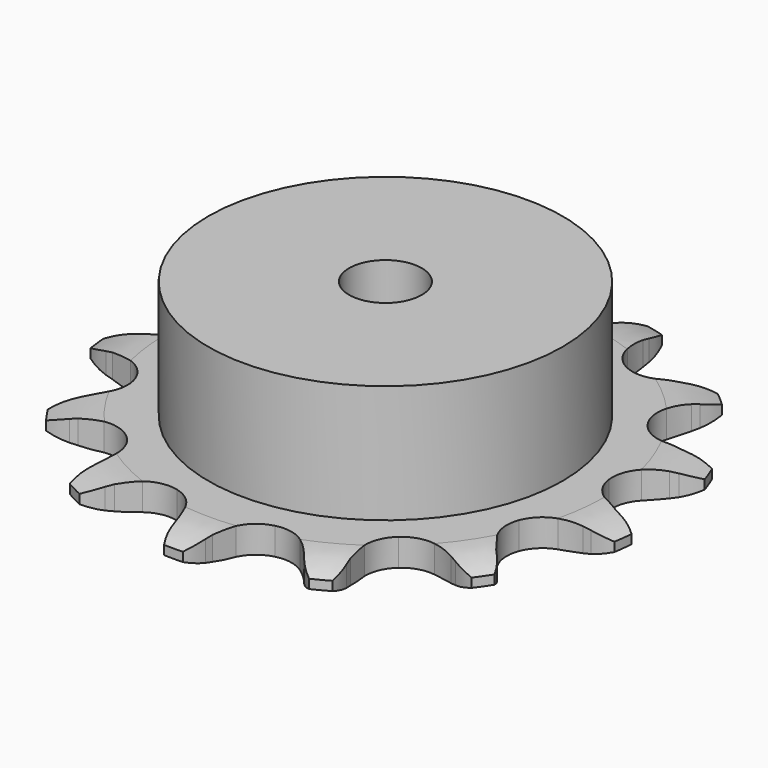
from build123d import *

# Parameters (mm, degrees)
PAD_DEPTH         = 3
SKETCH001_R       = 19.5
PAD001_DEPTH      = 16
SKETCH002_R       = 4
POCKET_DEPTH      = 0.001
POCKET_DEPTH_BACK = -16.001


with BuildPart() as part:
    # Sprocket → Pad (new body)
    with BuildSketch(Plane.XY):
        with BuildLine():
            ThreePointArc((-7.288365, 29.57006), (-5.778743, 28.369817), (-4.687667, 26.779504))
            Line((-4.687667, 26.779504), (-4.336843, 26.05775))
            ThreePointArc((-4.336843, 26.05775), (-3.743846, 25.003033), (-3.029351, 24.026525))
            ThreePointArc((-3.029351, 24.026525), (-1.673889, 22.975558), (0, 22.601517))
            ThreePointArc((0, 22.601517), (1.673889, 22.975558), (3.029351, 24.026525))
            ThreePointArc((3.029351, 24.026525), (3.743846, 25.003033), (4.336843, 26.05775))
            Line((4.336843, 26.05775), (4.687667, 26.779504))
            ThreePointArc((4.687667, 26.779504), (5.778743, 28.369817), (7.288365, 29.57006))
            ThreePointArc((7.288365, 29.57006), (8.067288, 27.805741), (8.294333, 25.890541))
            Line((8.294333, 25.890541), (8.269557, 25.088423))
            ThreePointArc((8.269557, 25.088423), (8.304478, 23.878938), (8.483326, 22.682241))
            ThreePointArc((8.483326, 22.682241), (9.195119, 21.121741), (10.503449, 20.01265))
            ThreePointArc((10.503449, 20.01265), (12.159429, 19.565951), (13.84804, 19.866622))
            Line((13.84804, 19.866622), (15.949723, 21.05756))
            ThreePointArc((15.949723, 21.05756), (16.268037, 21.301981), (16.595779, 21.533606))
            ThreePointArc((16.595779, 21.533606), (18.300934, 22.43471), (20.195419, 22.795915))
            ThreePointArc((20.195419, 22.795915), (20.065201, 20.871705), (19.376201, 19.070366))
            Line((19.376201, 19.070366), (18.9815, 18.37164))
            ThreePointArc((18.9815, 18.37164), (18.450346, 17.284466), (18.052575, 16.141729))
            ThreePointArc((18.052575, 16.141729), (17.957636, 14.429188), (18.600684, 12.839125))
            ThreePointArc((18.600684, 12.839125), (19.859391, 11.674021), (21.49431, 11.155515))
            Line((21.49431, 11.155515), (23.908715, 11.233337))
            ThreePointArc((23.908715, 11.233337), (24.304155, 11.301834), (24.701998, 11.354618))
            ThreePointArc((24.701998, 11.354618), (26.630602, 11.360081), (28.475945, 10.799502))
            ThreePointArc((28.475945, 10.799502), (27.466418, 9.156213), (26.019215, 7.881401))
            Line((26.019215, 7.881401), (25.345011, 7.446137))
            ThreePointArc((25.345011, 7.446137), (24.369462, 6.730332), (23.486197, 5.903341))
            ThreePointArc((23.486197, 5.903341), (22.606275, 4.431082), (22.436727, 2.724312))
            ThreePointArc((22.436727, 2.724312), (23.009805, 1.107713), (24.216492, -0.111186))
            Line((24.216492, -0.111186), (26.390508, -1.164307))
            ThreePointArc((26.390508, -1.164307), (26.772485, -1.287427), (27.149287, -1.425576))
            ThreePointArc((27.149287, -1.425576), (28.859519, -2.317006), (30.232976, -3.670948))
            ThreePointArc((30.232976, -3.670948), (28.57541, -4.656857), (26.701541, -5.113098))
            Line((26.701541, -5.113098), (25.902285, -5.185187))
            ThreePointArc((25.902285, -5.185187), (24.705828, -5.365641), (23.539414, -5.687431))
            ThreePointArc((23.539414, -5.687431), (22.076089, -6.582132), (21.132786, -8.014608))
            ThreePointArc((21.132786, -8.014608), (20.888951, -9.712358), (21.390968, -11.352415))
            Line((21.390968, -11.352415), (22.826554, -13.295224))
            ThreePointArc((22.826554, -13.295224), (23.107561, -13.581754), (23.377002, -13.879188))
            ThreePointArc((23.377002, -13.879188), (24.477069, -15.463294), (25.063996, -17.300427))
            ThreePointArc((25.063996, -17.300427), (23.13812, -17.403097), (21.266865, -16.936248))
            Line((21.266865, -16.936248), (20.525658, -16.628647))
            ThreePointArc((20.525658, -16.628647), (19.382387, -16.23241), (18.200035, -15.975281))
            ThreePointArc((18.200035, -15.975281), (16.488537, -16.087458), (14.987578, -16.917479))
            ThreePointArc((14.987578, -16.917479), (13.982689, -18.307445), (13.665031, -19.992943))
            Line((13.665031, -19.992943), (14.033311, -22.380364))
            ThreePointArc((14.033311, -22.380364), (14.148973, -22.764665), (14.249327, -23.153245))
            ThreePointArc((14.249327, -23.153245), (14.487217, -25.067128), (14.153157, -26.966587))
            ThreePointArc((14.153157, -26.966587), (12.400165, -26.162498), (10.960207, -24.879508))
            Line((10.960207, -24.879508), (10.44685, -24.262684))
            ThreePointArc((10.44685, -24.262684), (9.618674, -23.38053), (8.691247, -22.603387))
            ThreePointArc((8.691247, -22.603387), (7.123659, -21.907342), (5.408897, -21.944758))
            ThreePointArc((5.408897, -21.944758), (3.873162, -22.708518), (2.8086, -24.053329))
            Line((2.8086, -24.053329), (2.025206, -26.338433))
            ThreePointArc((2.025206, -26.338433), (1.949026, -26.732466), (1.857303, -27.123172))
            ThreePointArc((1.857303, -27.123172), (1.178518, -28.928385), (0, -30.455027))
            ThreePointArc((0, -30.455027), (-1.178518, -28.928385), (-1.857303, -27.123172))
            Line((-1.857303, -27.123172), (-2.025206, -26.338433))
            ThreePointArc((-2.025206, -26.338433), (-2.348561, -25.172452), (-2.8086, -24.053329))
            ThreePointArc((-2.8086, -24.053329), (-3.873162, -22.708518), (-5.408897, -21.944758))
            ThreePointArc((-5.408897, -21.944758), (-7.123659, -21.907342), (-8.691247, -22.603387))
            Line((-8.691247, -22.603387), (-10.44685, -24.262684))
            ThreePointArc((-10.44685, -24.262684), (-10.697419, -24.576181), (-10.960207, -24.879508))
            ThreePointArc((-10.960207, -24.879508), (-12.400165, -26.162498), (-14.153157, -26.966587))
            ThreePointArc((-14.153157, -26.966587), (-14.487217, -25.067128), (-14.249327, -23.153245))
            Line((-14.249327, -23.153245), (-14.033311, -22.380364))
            ThreePointArc((-14.033311, -22.380364), (-13.777769, -21.197668), (-13.665031, -19.992943))
            ThreePointArc((-13.665031, -19.992943), (-13.982689, -18.307445), (-14.987578, -16.917479))
            ThreePointArc((-14.987578, -16.917479), (-16.488537, -16.087458), (-18.200035, -15.975281))
            Line((-18.200035, -15.975281), (-20.525658, -16.628647))
            ThreePointArc((-20.525658, -16.628647), (-20.893215, -16.789789), (-21.266865, -16.936248))
            ThreePointArc((-21.266865, -16.936248), (-23.13812, -17.403097), (-25.063996, -17.300427))
            ThreePointArc((-25.063996, -17.300427), (-24.477069, -15.463294), (-23.377002, -13.879188))
            Line((-23.377002, -13.879188), (-22.826554, -13.295224))
            ThreePointArc((-22.826554, -13.295224), (-22.050656, -12.366754), (-21.390968, -11.352415))
            ThreePointArc((-21.390968, -11.352415), (-20.888951, -9.712358), (-21.132786, -8.014608))
            ThreePointArc((-21.132786, -8.014608), (-22.076089, -6.582132), (-23.539414, -5.687431))
            Line((-23.539414, -5.687431), (-25.902285, -5.185187))
            ThreePointArc((-25.902285, -5.185187), (-26.302627, -5.157058), (-26.701541, -5.113098))
            ThreePointArc((-26.701541, -5.113098), (-28.57541, -4.656857), (-30.232976, -3.670948))
            ThreePointArc((-30.232976, -3.670948), (-28.859519, -2.317006), (-27.149287, -1.425576))
            Line((-27.149287, -1.425576), (-26.390508, -1.164307))
            ThreePointArc((-26.390508, -1.164307), (-25.272004, -0.702766), (-24.216492, -0.111186))
            ThreePointArc((-24.216492, -0.111186), (-23.009805, 1.107713), (-22.436727, 2.724312))
            ThreePointArc((-22.436727, 2.724312), (-22.606275, 4.431082), (-23.486197, 5.903341))
            Line((-23.486197, 5.903341), (-25.345011, 7.446137))
            ThreePointArc((-25.345011, 7.446137), (-25.686424, 7.657092), (-26.019215, 7.881401))
            ThreePointArc((-26.019215, 7.881401), (-27.466418, 9.156213), (-28.475945, 10.799502))
            ThreePointArc((-28.475945, 10.799502), (-26.630602, 11.360081), (-24.701998, 11.354618))
            Line((-24.701998, 11.354618), (-23.908715, 11.233337))
            ThreePointArc((-23.908715, 11.233337), (-22.70384, 11.122217), (-21.49431, 11.155515))
            ThreePointArc((-21.49431, 11.155515), (-19.859391, 11.674021), (-18.600684, 12.839125))
            ThreePointArc((-18.600684, 12.839125), (-17.957636, 14.429188), (-18.052575, 16.141729))
            Line((-18.052575, 16.141729), (-18.9815, 18.37164))
            ThreePointArc((-18.9815, 18.37164), (-19.185771, 18.717094), (-19.376201, 19.070366))
            ThreePointArc((-19.376201, 19.070366), (-20.065201, 20.871705), (-20.195419, 22.795915))
            ThreePointArc((-20.195419, 22.795915), (-18.300934, 22.43471), (-16.595779, 21.533606))
            Line((-16.595779, 21.533606), (-15.949723, 21.05756))
            ThreePointArc((-15.949723, 21.05756), (-14.9345, 20.399235), (-13.84804, 19.866622))
            ThreePointArc((-13.84804, 19.866622), (-12.159429, 19.565951), (-10.503449, 20.01265))
            ThreePointArc((-10.503449, 20.01265), (-9.195119, 21.121741), (-8.483326, 22.682241))
            Line((-8.483326, 22.682241), (-8.269557, 25.088423))
            ThreePointArc((-8.269557, 25.088423), (-8.289889, 25.489236), (-8.294333, 25.890541))
            ThreePointArc((-8.294333, 25.890541), (-8.067288, 27.805741), (-7.288365, 29.57006))
        make_face()
    extrude(amount=PAD_DEPTH)

    # Sketch → Groove (revolve, cut)
    with BuildSketch(Plane.XZ):
        with BuildLine():
            Line((24.2, 0), (29.2, 0))
            Line((34.2, 0), (29.2, 0))
            Line((34.2, 3), (34.2, 0))
            Line((29.2, 3), (34.2, 3))
            Line((24.2, 3), (29.2, 3))
            ThreePointArc((29.2, 2), (26.74951, 2.747549), (24.2, 3))
            Line((29.2, 1), (29.2, 2))
            ThreePointArc((24.2, 0), (26.74951, 0.252451), (29.2, 1))
        make_face()
    revolve(axis=Axis((0, 0, 0), (0, 0, 1)), mode=Mode.SUBTRACT)

    # Sketch001 → Pad001 (join)
    with BuildSketch(Plane.XY):
        Circle(SKETCH001_R)
    extrude(amount=PAD001_DEPTH)

    # Sketch002 → Pocket (cut, two sides)
    with BuildSketch(Plane.XY) as pocket_sk:
        Circle(SKETCH002_R)
    extrude(amount=-POCKET_DEPTH, mode=Mode.SUBTRACT)
    extrude(pocket_sk.sketch, amount=-POCKET_DEPTH_BACK, mode=Mode.SUBTRACT)


solid = part.part
